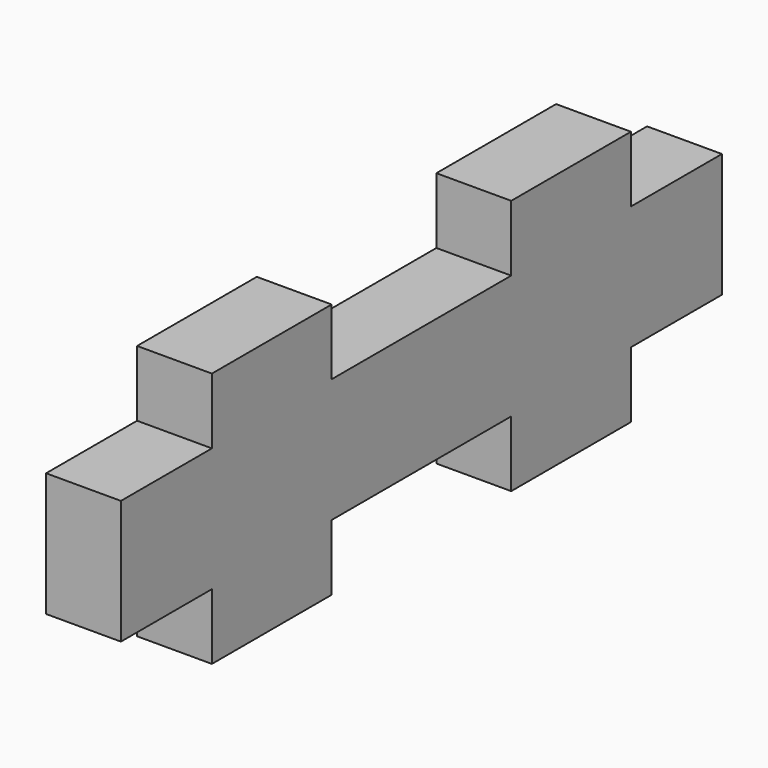
from build123d import *

# Parameters (mm, degrees)
F1_DEPTH = 6.35


with BuildPart() as f1:
    # F0 (on Right) → F1 (new body)
    with BuildSketch(Plane.YZ):
        Polygon((-19.669611, 78.665736), (-29.321611, 78.665736), (-29.321611, 68.150136), (-19.669611, 68.150136), (-19.669611, 62.562136), (-6.969611, 62.562136), (-6.969611, 68.150136), (12.080389, 68.150136), (12.080389, 62.562136), (24.780389, 62.562136), (24.780389, 68.150136), (34.432389, 68.150136), (34.432389, 78.665736), (24.780389, 78.665736), (24.780389, 84.253736), (12.080389, 84.253736), (12.080389, 78.665736), (-6.969611, 78.665736), (-6.969611, 84.253736), (-19.669611, 84.253736), align=None)
    extrude(amount=F1_DEPTH)


solid = f1.part
